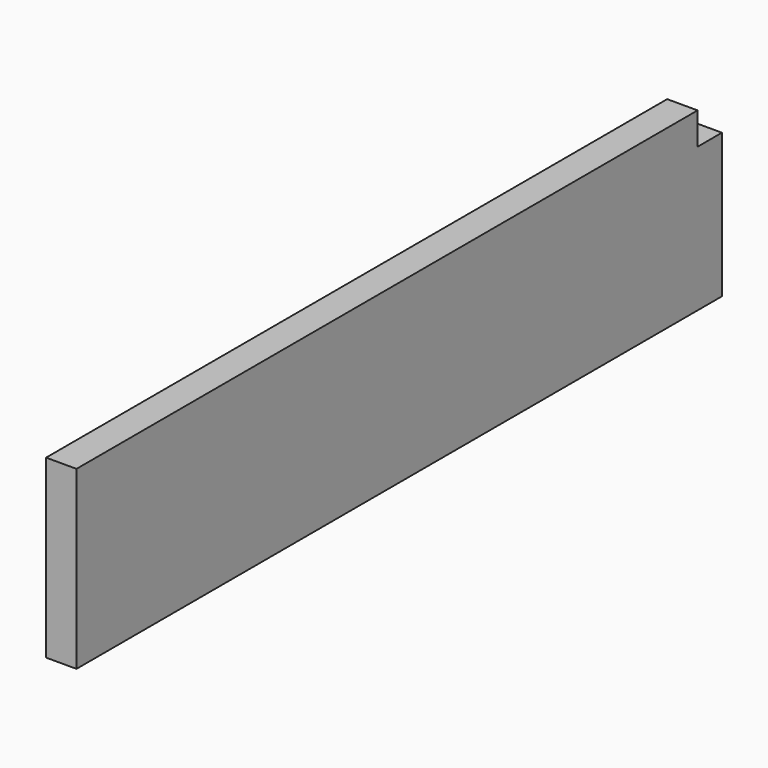
from build123d import *

# Parameters (mm, degrees)
F0_W     = 19
F0_H     = 90
F1_DEPTH = 504
F2_W     = 485
F2_H     = 20
F3_DEPTH = 19


with BuildPart() as f1:
    # F0 (on Front) → F1 (new body)
    with BuildSketch(Plane.XZ):
        with Locations((9.5, 45)):
            Rectangle(F0_W, F0_H)
    extrude(amount=F1_DEPTH)

    # F2 (on Right) → F3 (join, through all)
    with BuildSketch(Plane.YZ):
        with Locations((-261.5, 100)):
            Rectangle(F2_W, F2_H)
    extrude(amount=F3_DEPTH)


solid = f1.part
